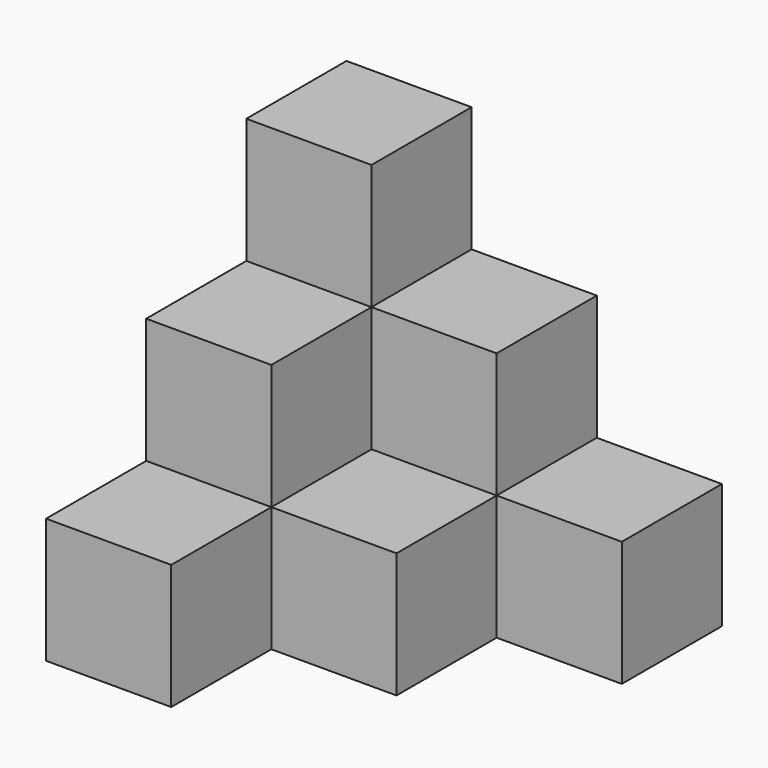
from build123d import *

# Parameters (mm, degrees)
BOX_W        = 10
BOX_H        = 10
BOX_DEPTH    = 10
BOX001_W     = 10
BOX001_H     = 10
BOX001_DEPTH = 10
BOX002_W     = 10
BOX002_H     = 10
BOX002_DEPTH = 10
BOX003_W     = 10
BOX003_H     = 10
BOX003_DEPTH = 10
BOX004_W     = 10
BOX004_H     = 10
BOX004_DEPTH = 10
BOX005_W     = 10
BOX005_H     = 10
BOX005_DEPTH = 10


with BuildPart() as obj1:
    # Box → Box (new body)
    with BuildSketch(Plane.XY):
        with Locations((5, 5)):
            Rectangle(BOX_W, BOX_H)
    extrude(amount=BOX_DEPTH)


with BuildPart() as obj2:
    # Box001 → Box001 (new body)
    with BuildSketch(Plane(origin=(10, 0, -10), x_dir=(1, 0, 0), z_dir=(0, 0, 1))):
        with Locations((5, 5)):
            Rectangle(BOX001_W, BOX001_H)
    extrude(amount=BOX001_DEPTH)


with BuildPart() as obj3:
    # Box002 → Box002 (new body)
    with BuildSketch(Plane(origin=(0, -10, -10), x_dir=(1, 0, 0), z_dir=(0, 0, 1))):
        with Locations((5, 5)):
            Rectangle(BOX002_W, BOX002_H)
    extrude(amount=BOX002_DEPTH)


with BuildPart() as obj4:
    # Box003 → Box003 (new body)
    with BuildSketch(Plane(origin=(0, -20, -20), x_dir=(1, 0, 0), z_dir=(0, 0, 1))):
        with Locations((5, 5)):
            Rectangle(BOX003_W, BOX003_H)
    extrude(amount=BOX003_DEPTH)


with BuildPart() as obj5:
    # Box004 → Box004 (new body)
    with BuildSketch(Plane(origin=(10, -10, -20), x_dir=(1, 0, 0), z_dir=(0, 0, 1))):
        with Locations((5, 5)):
            Rectangle(BOX004_W, BOX004_H)
    extrude(amount=BOX004_DEPTH)


with BuildPart() as obj6:
    # Box005 → Box005 (new body)
    with BuildSketch(Plane(origin=(20, 0, -20), x_dir=(1, 0, 0), z_dir=(0, 0, 1))):
        with Locations((5, 5)):
            Rectangle(BOX005_W, BOX005_H)
    extrude(amount=BOX005_DEPTH)


solid = Compound([obj1.part, obj2.part, obj3.part, obj4.part, obj5.part, obj6.part])
